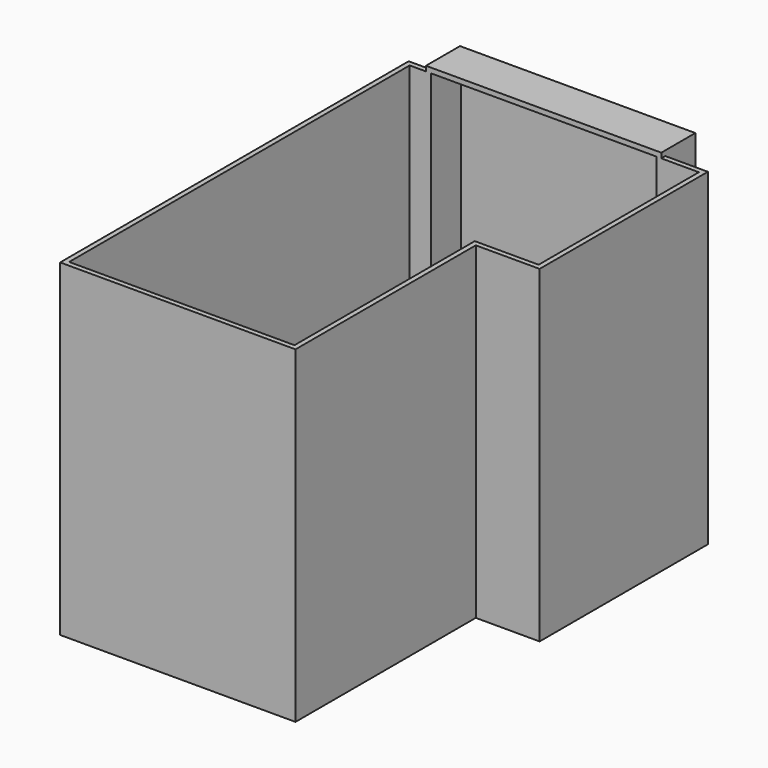
from build123d import *

# Parameters (mm, degrees)
F2_DEPTH = 3302
F3_DEPTH = 25.4
F4_W     = 660.4
F4_H     = 2032
F5_DEPTH = 50.8
F7_DEPTH = 431.8
F9_DEPTH = 381


with BuildPart() as f2:
    # F0 (on Top) → F2 (new body)
    with BuildSketch(Plane.XY):
        Polygon((3035.3, 4419.6), (0, 4419.6), (0, 0), (2387.6, 0), (2387.6, 2286), (3035.3, 2286), align=None)
        Polygon((50.8, 50.8), (50.8, 4368.8), (2984.5, 4368.8), (2984.5, 2336.8), (2336.8, 2336.8), (2336.8, 50.8), align=None, mode=Mode.SUBTRACT)
    extrude(amount=F2_DEPTH)

    # F1 (on face) → F3 (join)
    with BuildSketch(Plane.XY):
        Polygon((0, 4419.6), (0, 0), (2387.6, 0), (2387.6, 2286), (3035.3, 2286), (3035.3, 4419.6), align=None)
    extrude(amount=-F3_DEPTH)

    # F4 (on face) → F5 (cut, through all)
    with BuildSketch(Plane(origin=(0, 0, 0), x_dir=(0, -1, 0), z_dir=(-1, 0, 0))):
        with Locations((-469.9, 1016)):
            Rectangle(F4_W, F4_H)
    extrude(amount=-F5_DEPTH, mode=Mode.SUBTRACT)

    # F6 (on face) → F7 (join)
    with BuildSketch(Plane.XZ.offset(-4368.8)):
        Polygon((2603.5, 965.2), (2603.5, 3352.8), (215.9, 3352.8), (215.9, 2159), (215.9, 965.2), align=None)
    extrude(amount=-F7_DEPTH)

    # F8 (on face) → F9 (cut)
    with BuildSketch(Plane.XZ.offset(-4368.8)):
        Polygon((2552.7, 1016), (2552.7, 3302), (266.7, 3302), (266.7, 2159), (266.7, 1016), align=None)
    extrude(amount=-F9_DEPTH, mode=Mode.SUBTRACT)


solid = f2.part
